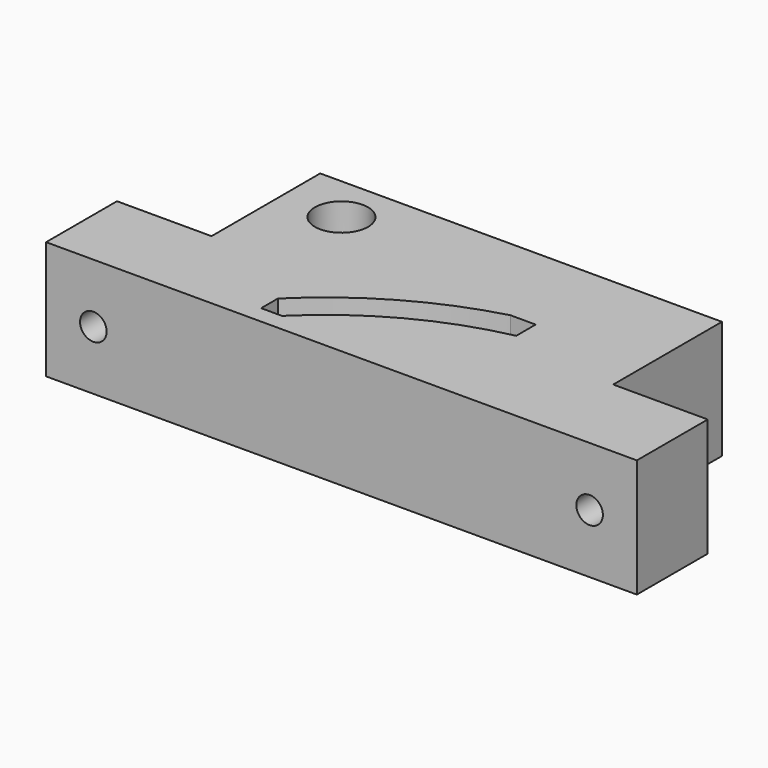
from build123d import *

# Parameters (mm, degrees)
CYLINDER019_R             = 1.7
CYLINDER019_DEPTH         = 20
PAD004_DEPTH              = 7.5
BOX003_W                  = 31.265144
BOX003_H                  = 19
BOX003_DEPTH              = 20
CYLINDER_R                = 56.1
CYLINDER_DEPTH            = 20
CYLINDER017_R             = 61.1
CYLINDER017_DEPTH         = 20
CYLINDER020_R             = 3.5
CYLINDER020_DEPTH         = 5
CYLINDER021_R             = 4
CYLINDER021_DEPTH         = 8
CYLINDER022_R             = 2.25
CYLINDER022_DEPTH         = 15
FUSION008_PLACEMENT_ANGLE = 90
CYLINDER023_R             = 4
CYLINDER023_DEPTH         = 8
CYLINDER024_R             = 2.25
CYLINDER024_DEPTH         = 15
FUSION009_PLACEMENT_ANGLE = 90
CYLINDER018_R             = 4.5
CYLINDER018_DEPTH         = 20
BOX005_W                  = 99.990908
BOX005_H                  = 15
BOX005_DEPTH              = 20
BOX004_W                  = 67.990908
BOX004_H                  = 38
BOX004_DEPTH              = 20


with BuildPart() as cylinder019:
    # Cylinder019 → Cylinder019 (new body)
    with BuildSketch(Plane(origin=(14.125764, 59, 0), x_dir=(1, 0, 0), z_dir=(0, 0, 1))):
        Circle(CYLINDER019_R)
    extrude(amount=CYLINDER019_DEPTH)


with BuildPart() as m8press002:
    # Sketch004 → Pad004 (new body)
    with BuildSketch(Plane.XY):
        Polygon((7.5, 0), (3.75, 6.495191), (-3.75, 6.495191), (-7.5, 0), (-3.75, -6.495191), (3.75, -6.495191), align=None)
    extrude(amount=PAD004_DEPTH)


with BuildPart() as m8press002_1:
    # Body004 placement: moved
    add(m8press002.part.moved(Location((-50.865144, 67, 0))))


with BuildPart() as cube003:
    # Box003 → Box003 (new body)
    with BuildSketch(Plane(origin=(-42.865144, 40, 0), x_dir=(1, 0, 0), z_dir=(0, 0, 1))):
        with Locations((15.632572, 9.5)):
            Rectangle(BOX003_W, BOX003_H)
    extrude(amount=BOX003_DEPTH)


with BuildPart() as cylinder:
    # Cylinder → Cylinder (new body)
    with BuildSketch(Plane.XY):
        Circle(CYLINDER_R)
    extrude(amount=CYLINDER_DEPTH)


with BuildPart() as common:
    # Cylinder017 → Cylinder017 (new body)
    with BuildSketch(Plane.XY):
        Circle(CYLINDER017_R)
    extrude(amount=CYLINDER017_DEPTH)

    # Cut: cut Cylinder
    add(cylinder.part, mode=Mode.SUBTRACT)

    # Common: intersect Cube003
    add(cube003.part, mode=Mode.INTERSECT)


with BuildPart() as cylinder020:
    # Cylinder020 → Cylinder020 (new body)
    with BuildSketch(Plane(origin=(14.125764, 59, 15), x_dir=(1, 0, 0), z_dir=(0, 0, 1))):
        Circle(CYLINDER020_R)
    extrude(amount=CYLINDER020_DEPTH)


with BuildPart() as cylinder021:
    # Cylinder021 → Cylinder021 (new body)
    with BuildSketch(Plane.XY):
        Circle(CYLINDER021_R)
    extrude(amount=CYLINDER021_DEPTH)


with BuildPart() as fusion008:
    # Cylinder022 → Cylinder022 (new body)
    with BuildSketch(Plane.XY):
        Circle(CYLINDER022_R)
    extrude(amount=CYLINDER022_DEPTH)

    # Fusion008: union Cylinder021
    add(cylinder021.part)


with BuildPart() as fusion008_1:
    # Fusion008 placement: moved
    add(fusion008.part.moved(Location((-68.865144, 52, 10))).rotate(Axis((-68.865144, 52, 10), (1, 0, 0)), FUSION008_PLACEMENT_ANGLE))


with BuildPart() as cylinder023:
    # Cylinder023 → Cylinder023 (new body)
    with BuildSketch(Plane.XY):
        Circle(CYLINDER023_R)
    extrude(amount=CYLINDER023_DEPTH)


with BuildPart() as fusion009:
    # Cylinder024 → Cylinder024 (new body)
    with BuildSketch(Plane.XY):
        Circle(CYLINDER024_R)
    extrude(amount=CYLINDER024_DEPTH)

    # Fusion009: union Cylinder023
    add(cylinder023.part)


with BuildPart() as fusion009_1:
    # Fusion009 placement: moved
    add(fusion009.part.moved(Location((15.125764, 52, 10))).rotate(Axis((15.125764, 52, 10), (1, 0, 0)), FUSION009_PLACEMENT_ANGLE))


with BuildPart() as fusion011:
    # Cylinder018 → Cylinder018 (new body)
    with BuildSketch(Plane(origin=(-50.865144, 67, 0), x_dir=(1, 0, 0), z_dir=(0, 0, 1))):
        Circle(CYLINDER018_R)
    extrude(amount=CYLINDER018_DEPTH)

    # Fusion011: union Cylinder019, M8Press002, Common, Cylinder020, Fusion008, Fusion009
    add(cylinder019.part)
    add(m8press002_1.part)
    add(common.part)
    add(cylinder020.part)
    add(fusion008_1.part)
    add(fusion009_1.part)


with BuildPart() as cube005:
    # Box005 → Box005 (new body)
    with BuildSketch(Plane(origin=(-76.865144, 37, 0), x_dir=(1, 0, 0), z_dir=(0, 0, 1))):
        with Locations((49.995454, 7.5)):
            Rectangle(BOX005_W, BOX005_H)
    extrude(amount=BOX005_DEPTH)


with BuildPart() as cut006:
    # Box004 → Box004 (new body)
    with BuildSketch(Plane(origin=(-60.865144, 37, 0), x_dir=(1, 0, 0), z_dir=(0, 0, 1))):
        with Locations((33.995454, 19)):
            Rectangle(BOX004_W, BOX004_H)
    extrude(amount=BOX004_DEPTH)

    # Fusion010: union Cube005
    add(cube005.part)

    # Cut006: cut Fusion011
    add(fusion011.part, mode=Mode.SUBTRACT)


solid = cut006.part
